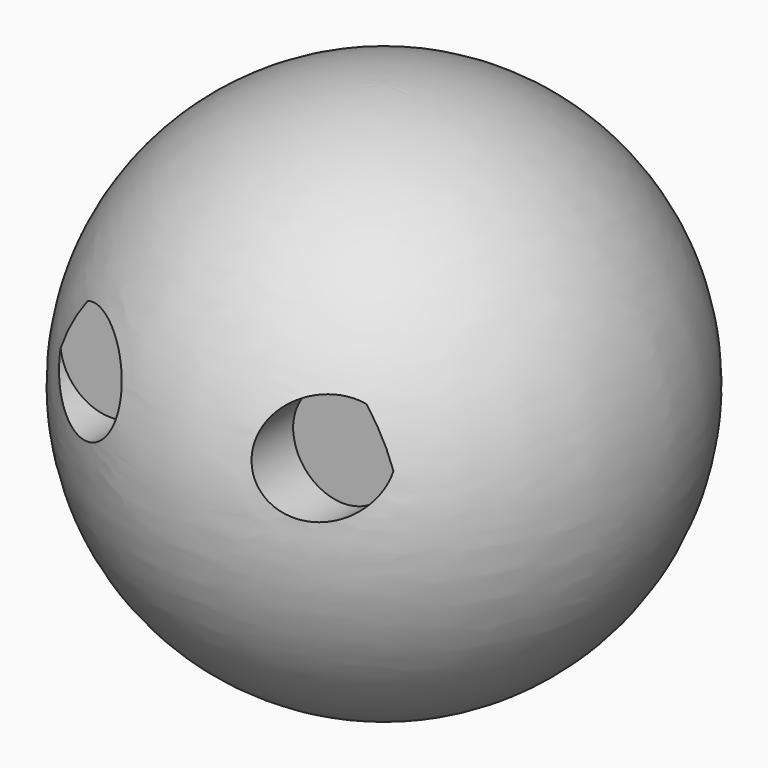
from build123d import *

# Parameters (mm, degrees)
F3_R     = 5.862944
F4_DEPTH = 15.24


with BuildPart() as f1:
    # F0 (on Front) → F1 (revolve)
    with BuildSketch(Plane.XZ):
        with BuildLine():
            Line((0, 61.569601), (0, 0))
            ThreePointArc((0, 0), (30.706428, 30.784801), (0, 61.569601))
        make_face()
    revolve(axis=Axis((0, 0, 30.784801), (0, 0, 1)))

    # F3 (on offset) → F4 (cut)
    with BuildSketch(Plane.XZ.offset(38.1)):
        with Locations((-13.563599, 38.1)):
            Circle(F3_R)
        with Locations((13.563599, 38.1)):
            Circle(F3_R)
    extrude(amount=-F4_DEPTH, mode=Mode.SUBTRACT)


solid = f1.part
